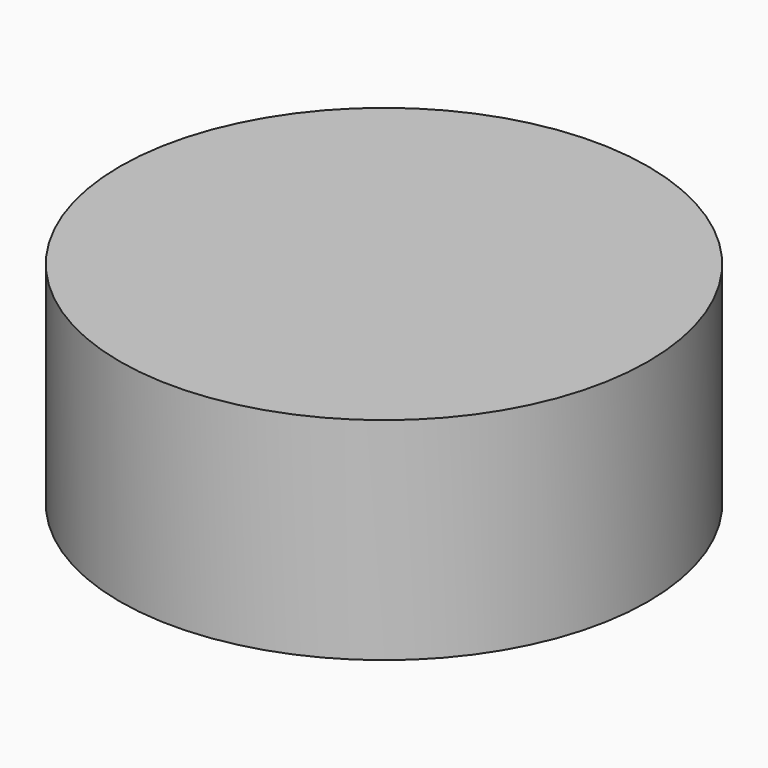
from build123d import *

# Parameters (mm, degrees)
F0_W      = 8.2
F0_H      = 3.2
F1_DEPTH  = 25
F2_R      = 3
F3_DEPTH  = 56.7
F4_R      = 2.6
F5_DEPTH  = 25
F6_R      = 7.5
F6_R_2    = 2.6
F7_DEPTH  = 5
F9_R      = 3
F10_DEPTH = 13
F12_DEPTH = 29.7
F13_R     = 2
F14_R     = 8
F15_R     = 5
F15_R_2   = 2.6
F16_DEPTH = 4


with BuildPart() as f1:
    # F0 (on Front) → F1 (new body)
    with BuildSketch(Plane.XZ):
        with BuildLine():
            Line((-10.6339062591, 10), (9.3660937409, 10))
            Line((9.3660937409, 10), (9.3660937409, 25))
            Line((9.3660937409, 25), (-25.002611801, 25))
            add(Edge.make_bspline(
                [(-25.002611801, 25), (-24.6417401479, 10.1696792706), (-29.4978582166, -23.9474636348), (-4.2645302601, -19.9716370553), (9.3660937409, -19.8654346168)],
                knots=[0, 0, 0, 0, 0.5338255261, 1, 1, 1, 1], degree=3))
            Line((9.3660937409, -19.8654346168), (9.3660937409, 0))
            Line((9.3660937409, 0), (-10.6339062591, 0))
            Line((-10.6339062591, 0), (-10.6339062591, 10))
        make_face()
        with Locations((0, -7.6)):
            Rectangle(F0_W, F0_H, mode=Mode.SUBTRACT)
        with BuildLine():
            add(Edge.make_bspline(
                [(-25.002611801, 25), (-24.6417401479, 10.1696792706), (-29.4978582166, -23.9474636348), (-4.2645302601, -19.9716370553), (9.3660937409, -19.8654346168)],
                knots=[0, 0, 0, 0, 0.5338255261, 1, 1, 1, 1], degree=3))
            Line((-25.002611801, 25), (-30.6339062591, 25))
            Line((-30.6339062591, 25), (-30.6339062591, -25))
            Line((-30.6339062591, -25), (9.3660937409, -25))
            Line((9.3660937409, -25), (9.3660937409, -19.8654346168))
        make_face()
    extrude(amount=F1_DEPTH)

    # F2 (on face) → F3 (cut)
    with BuildSketch(Plane.XY.offset(25)):
        with Locations((-17.6339062591, -12.5)):
            Circle(F2_R)
    extrude(amount=-F3_DEPTH, mode=Mode.SUBTRACT)

    # F4 (on face) → F5 (cut)
    with BuildSketch(Plane(origin=(0, 0, -25), x_dir=(1, 0, 0), z_dir=(0, 0, -1))):
        with Locations((0, 12.5)):
            Circle(F4_R)
    extrude(amount=-F5_DEPTH, mode=Mode.SUBTRACT)

    # F6 (on face) → F7 (cut)
    with BuildSketch(Plane.XY):
        with Locations((0, -12.5)):
            Circle(F6_R)
        with Locations((0, -12.5)):
            Circle(F6_R_2, mode=Mode.SUBTRACT)
    extrude(amount=-F7_DEPTH, mode=Mode.SUBTRACT)

    # F9 (on face) → F10 (cut)
    with BuildSketch(Plane(origin=(0, 0, -25), x_dir=(1, 0, 0), z_dir=(0, 0, -1))):
        Polygon((-19.9433073358, 8.5), (-15.3245051823, 8.5), (-13.0151041056, 12.5), (-15.3245051823, 16.5), (-19.9433073358, 16.5), (-22.2527084126, 12.5), align=None)
        with Locations((-17.6339062591, 12.5)):
            Circle(F9_R, mode=Mode.SUBTRACT)
    extrude(amount=-F10_DEPTH, mode=Mode.SUBTRACT)

    # F11 (on face) → F12 (cut)
    with BuildSketch(Plane.XZ.offset(25)):
        with BuildLine():
            add(Edge.make_bspline(
                [(-30.6339062591, 10.4684518361), (-30.250977562, -0.4565911074), (-26.8392149597, -19.9533025938), (-5.9271696172, -24.8007161824), (-4.2359018698, -25)],
                knots=[0.1687795662, 0.1687795662, 0.1687795662, 0.1687795662, 0.5606219593, 0.9476378979, 0.9476378979, 0.9476378979, 0.9476378979], degree=3))
            Line((-30.6339062591, 10.4684518361), (-30.6339062591, -25))
            Line((-30.6339062591, -25), (-4.2359018698, -25))
        make_face()
    extrude(amount=-F12_DEPTH, mode=Mode.SUBTRACT)

    # F13
    f13_edges = [f1.edges().sort_by_distance(p)[0] for p in [
        (2.565096, -25, -25),
        (2.565096, 0, -25),
        (-25.032678, -25, -13.131283),
        (-25.032678, 0, -13.131283),
    ]]
    fillet(f13_edges, radius=F13_R)

    # F14
    f14_edges = [f1.edges().sort_by_distance(p)[0] for p in [
        (-30.633906, -12.5, 25),
    ]]
    fillet(f14_edges, radius=F14_R)


with BuildPart() as f16:
    # F15 (on face) → F16 (new body)
    with BuildSketch(Plane.XY.offset(-5)):
        with Locations((0, -12.5)):
            Circle(F15_R)
        with Locations((0, -12.5)):
            Circle(F15_R_2, mode=Mode.SUBTRACT)
        with Locations((0, -12.5)):
            Circle(F15_R_2)
    extrude(amount=F16_DEPTH)


solid = f16.part
